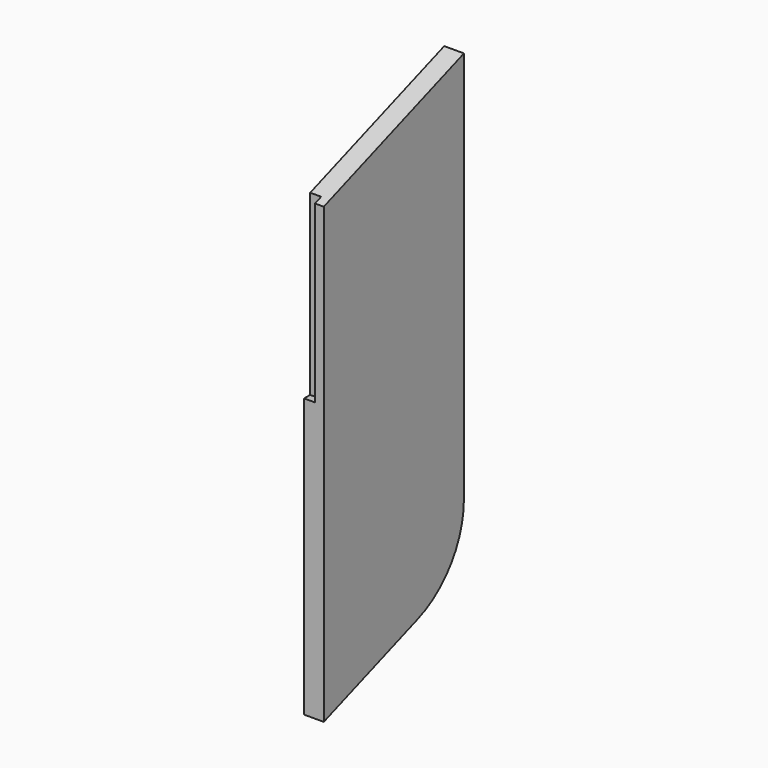
from build123d import *

# Parameters (mm, degrees)
F1_DEPTH = 9
F2_R     = 6.5
F3_DEPTH = 5
F5_DEPTH = 5
F7_DEPTH = 5


with BuildPart() as f1:
    # F0 (on Right) → F1 (new body)
    with BuildSketch(Plane.YZ):
        with BuildLine():
            Line((80, 29.117619), (0, 0))
            Line((0, 0), (0, -207.12592))
            Line((0, -207.12592), (53.680806, -187.587705))
            ThreePointArc((53.680806, -187.587705), (72.766082, -172.943057), (80, -150))
            Line((80, -150), (80, 29.117619))
        make_face()
    extrude(amount=F1_DEPTH)

    # F2 (on face) → F3 (cut)
    with BuildSketch(Plane(origin=(0, 0, 0), x_dir=(0, -1, 0), z_dir=(-1, 0, 0))):
        with Locations((-40, -150)):
            Circle(F2_R)
    extrude(amount=-F3_DEPTH, mode=Mode.SUBTRACT)

    # F4 (on face) → F5 (cut)
    with BuildSketch(Plane(origin=(0, 0, 0), x_dir=(0, -1, 0), z_dir=(-1, 0, 0))):
        Polygon((-5, -88.635259), (-5, -83.314371), (-75, -57.836454), (-75, -63.157343), align=None)
    extrude(amount=-F5_DEPTH, mode=Mode.SUBTRACT)

    # F6 (on face) → F7 (cut)
    with BuildSketch(Plane(origin=(0, 0, 0), x_dir=(0, -1, 0), z_dir=(-1, 0, 0))):
        Polygon((0, 0), (-3.5, 1.273896), (-3.5, -80), (0, -80), align=None)
    extrude(amount=-F7_DEPTH, mode=Mode.SUBTRACT)


solid = f1.part
